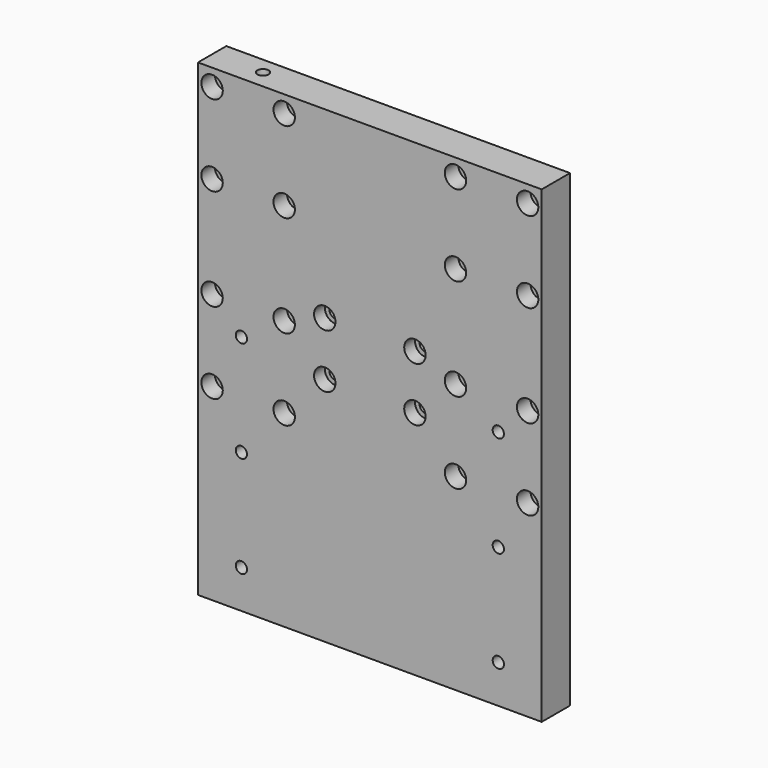
from build123d import *

# Parameters (mm, degrees)
SKETCH003_W         = 152.5
SKETCH003_H         = 208
PAD001_DEPTH        = 7.85
HOLE_D              = 5.5
HOLE_CBORE_D        = 9.5
HOLE_CBORE_DEPTH    = 7.5
HOLE001_D           = 5.5
HOLE001_CBORE_D     = 9.5
HOLE001_CBORE_DEPTH = 6
SKETCH012_R         = 2.5
POCKET003_DEPTH     = 15.701
SKETCH016_R         = 2.5
POCKET006_DEPTH     = 25


with BuildPart() as part:
    # Sketch003 → Pad001 (new body, symmetric)
    with BuildSketch(Plane.XZ):
        with Locations((0, -38)):
            Rectangle(SKETCH003_W, SKETCH003_H)
    extrude(amount=PAD001_DEPTH, both=True)

    # Hole (through all)
    with Locations(Plane.XZ.offset(7.85)):
        with Locations((-70, 58.5), (-38, 58.5), (-70, 22.5), (-38, 22.5), (-70, -22.5), (-38, -22.5), (-70, -58.5), (-38, -58.5), (38, -22.5), (70, -22.5), (38, -58.5), (70, -58.5), (38, 22.5), (70, 22.5), (38, 58.5), (70, 58.5)):
            CounterBoreHole(HOLE_D / 2, HOLE_CBORE_D / 2, HOLE_CBORE_DEPTH)

    # Hole001 (through all)
    with Locations(Plane.XZ.offset(7.85)):
        with Locations((-20, -15.525), (20, -15.525), (-20, -39.525), (20, -39.525)):
            CounterBoreHole(HOLE001_D / 2, HOLE001_CBORE_D / 2, HOLE001_CBORE_DEPTH)

    # Sketch012 → Pocket003 (cut, through all)
    with BuildSketch(Plane.XZ.offset(7.85)):
        with Locations((-57, -80)):
            Circle(SKETCH012_R)
        with Locations((-57, -125)):
            Circle(SKETCH012_R)
        with Locations((57, -80)):
            Circle(SKETCH012_R)
        with Locations((57, -125)):
            Circle(SKETCH012_R)
        with Locations((-57, -35)):
            Circle(SKETCH012_R)
        with Locations((57, -35)):
            Circle(SKETCH012_R)
    extrude(amount=-POCKET003_DEPTH, mode=Mode.SUBTRACT)

    # Sketch016 (on Face1 of Pocket003) → Pocket006 (cut)
    with BuildSketch(Plane(origin=(0, 0, 66), x_dir=(-1, 0, 0), z_dir=(0, 0, 1))):
        with Locations((54, -0.4)):
            Circle(SKETCH016_R)
    extrude(amount=-POCKET006_DEPTH, mode=Mode.SUBTRACT)


with BuildPart() as part_1:
    # Body001 placement: moved
    add(part.part.moved(Location((88, -72, 0))))


solid = part_1.part
